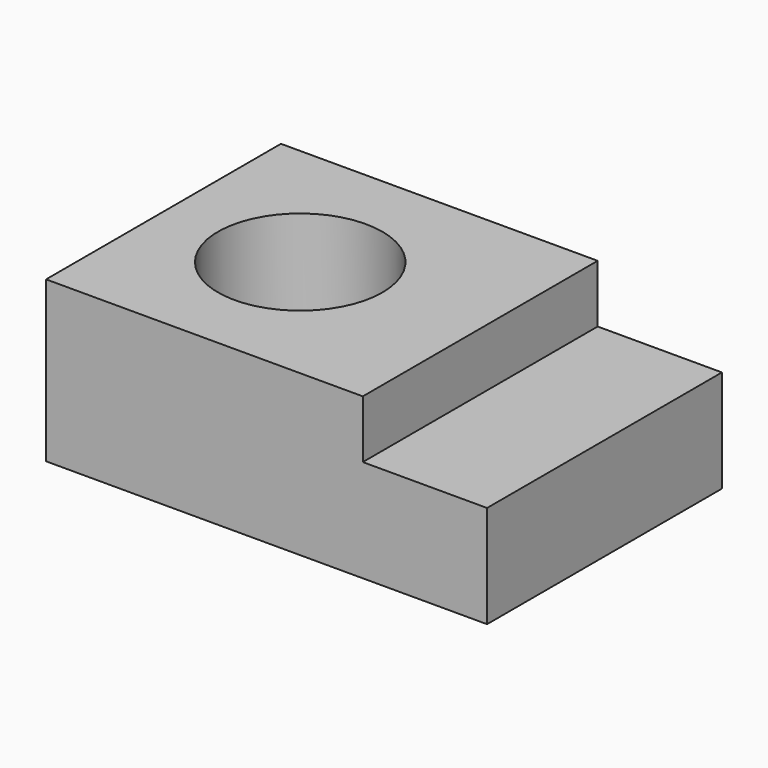
from build123d import *

# Parameters (mm, degrees)
F0_W     = 144.8
F0_H     = 96.4
F1_DEPTH = 33.6
F2_W     = 104
F2_H     = 96.4
F3_DEPTH = 19
F4_R     = 27
F5_DEPTH = 159


with BuildPart() as f1:
    # F0 (on Top) → F1 (new body)
    with BuildSketch(Plane.XY):
        Rectangle(F0_W, F0_H)
    extrude(amount=F1_DEPTH)

    # F2 (on face) → F3 (join)
    with BuildSketch(Plane.XY.offset(33.6)):
        with Locations((-20.4, 0)):
            Rectangle(F2_W, F2_H)
    extrude(amount=F3_DEPTH)

    # F4 (on face) → F5 (cut)
    with BuildSketch(Plane.XY.offset(52.6)):
        with Locations((-27.513253, 0)):
            Circle(F4_R)
    extrude(amount=-F5_DEPTH, mode=Mode.SUBTRACT)


solid = f1.part
